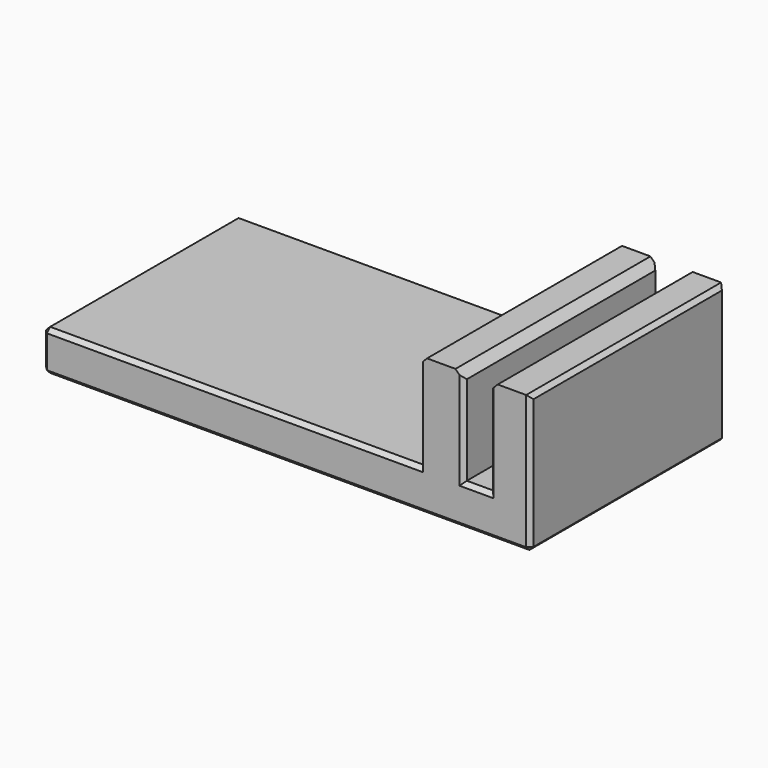
from build123d import *

# Parameters (mm, degrees)
F0_W     = 60
F0_H     = 30
F1_DEPTH = 5
F2_W     = 5
F2_H     = 30
F3_DEPTH = 12
F4_SIZE  = 1
F5_SIZE  = 0.5


with BuildPart() as f1:
    # F0 (on Top) → F1 (new body)
    with BuildSketch(Plane.XY):
        Rectangle(F0_W, F0_H)
    extrude(amount=F1_DEPTH)

    # F2 (on face) → F3 (join)
    with BuildSketch(Plane.XY.offset(5)):
        with Locations((19.3, 0)):
            Rectangle(F2_W, F2_H)
        with Locations((27.5, 0)):
            Rectangle(F2_W, F2_H)
    extrude(amount=F3_DEPTH)

    # F4
    f4_edges = [f1.edges().sort_by_distance(p)[0] for p in [
        (21.8, 0, 17),
        (25, 0, 17),
    ]]
    chamfer(f4_edges, length=F4_SIZE)

    # F5
    f5_edges = [f1.edges().sort_by_distance(p)[0] for p in [
        (-6.6, -15, 5),
        (-30, 0, 5),
        (-6.6, 15, 5),
        (-30, -15, 2.5),
        (0, -15, 0),
        (23.4, -15, 5),
        (30, 0, 0),
        (16.8, 0, 17),
        (30, 0, 17),
        (-30, 0, 0),
        (30, -15, 8.5),
        (30, 15, 8.5),
        (23.4, 15, 5),
        (21.8, 15, 10.5),
        (25, 15, 10.5),
        (25, -15, 10.5),
        (21.8, -15, 10.5),
    ]]
    chamfer(f5_edges, length=F5_SIZE)


solid = f1.part
